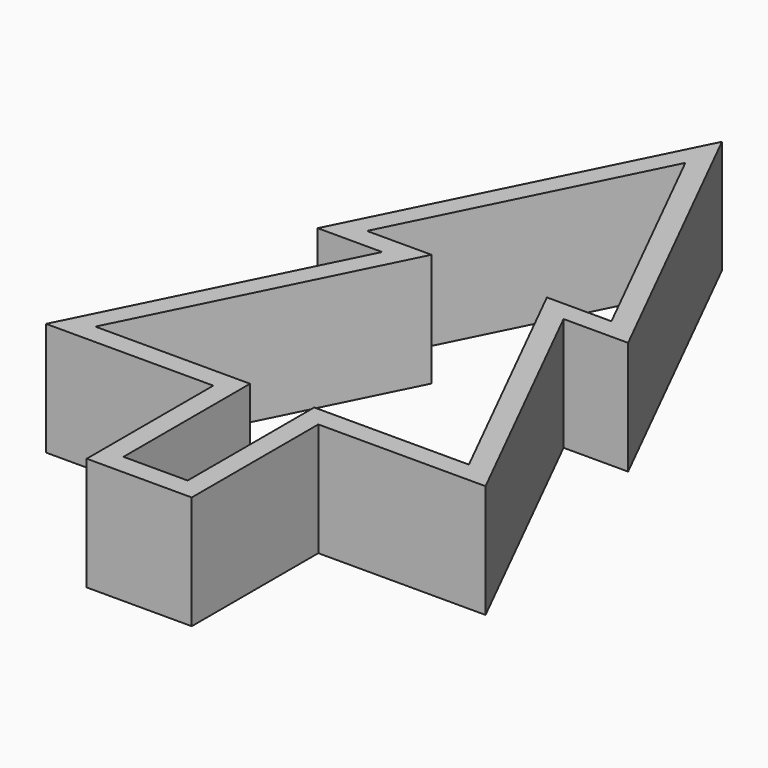
from build123d import *

# Parameters (mm, degrees)
F1_DEPTH = 12.7
F2_T     = -2.286


with BuildPart() as f1:
    # F0 (on Top) → F1 (new body)
    with BuildSketch(Plane.XY):
        Polygon((5.8803781867, 0), (10.16, 0), (24.6159397066, 0), (10.16, 28.9949309081), (17.3879698533, 28.9949309081), (0, 63.8707670531), (-17.3879698533, 28.9949309081), (-10.16, 28.9949309081), (-24.6159397066, 0), (-10.16, 0), (-5.8803781867, 0), align=None)
        Polygon((5.8803781867, -17.7253894508), (5.8803781867, 0), (-5.8803781867, 0), (-5.8803781867, -17.7253894508), (0, -17.7253894508), align=None)
    extrude(amount=F1_DEPTH)

    # F2
    f2_openings = [f1.faces().sort_by_distance(p)[0] for p in [
        (0, 19.404234, 12.7),
        (0, 19.404234, 0),
    ]]
    offset(amount=F2_T, openings=f2_openings, kind=Kind.INTERSECTION)


solid = f1.part
